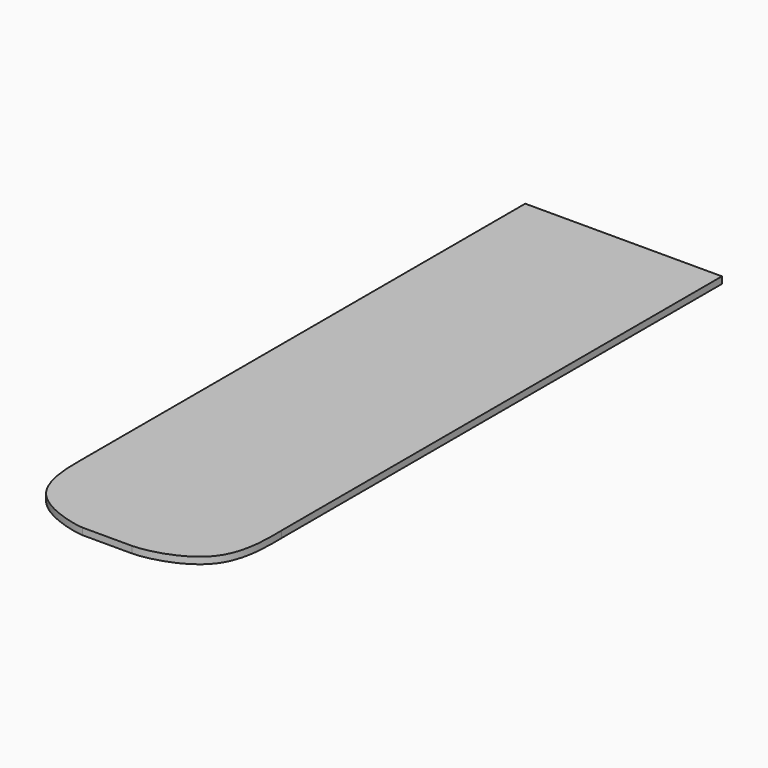
from build123d import *

# Parameters (mm, degrees)
F1_DEPTH = 19.05


with BuildPart() as f1:
    # F0 (on Top) → F1 (new body)
    with BuildSketch(Plane.XY):
        with BuildLine():
            Line((558.8, 0), (0, 0))
            Line((0, 0), (0, -1573.3252388448))
            add(Edge.make_bspline(
                [(0, -1573.3252388448), (0, -1599.3355649967), (-11.3167588952, -1787.3028003545), (178.3879735857, -1827.0957518131), (204.7477325159, -1828.8)],
                knots=[0, 0, 0, 0, 0.4975483488, 1, 1, 1, 1], degree=3))
            Line((204.7477325159, -1828.8), (345.3625738621, -1828.8))
            add(Edge.make_bspline(
                [(345.3625738621, -1828.8), (385.9299482714, -1828.5200882781), (573.027412907, -1785.7629185932), (558.7186116148, -1592.4349843346), (558.8, -1563.6059045792)],
                knots=[0, 0, 0, 0, 0.5067159085, 1, 1, 1, 1], degree=3))
            Line((558.8, -1563.6059045792), (558.8, 0))
        make_face()
    extrude(amount=F1_DEPTH)


solid = f1.part
